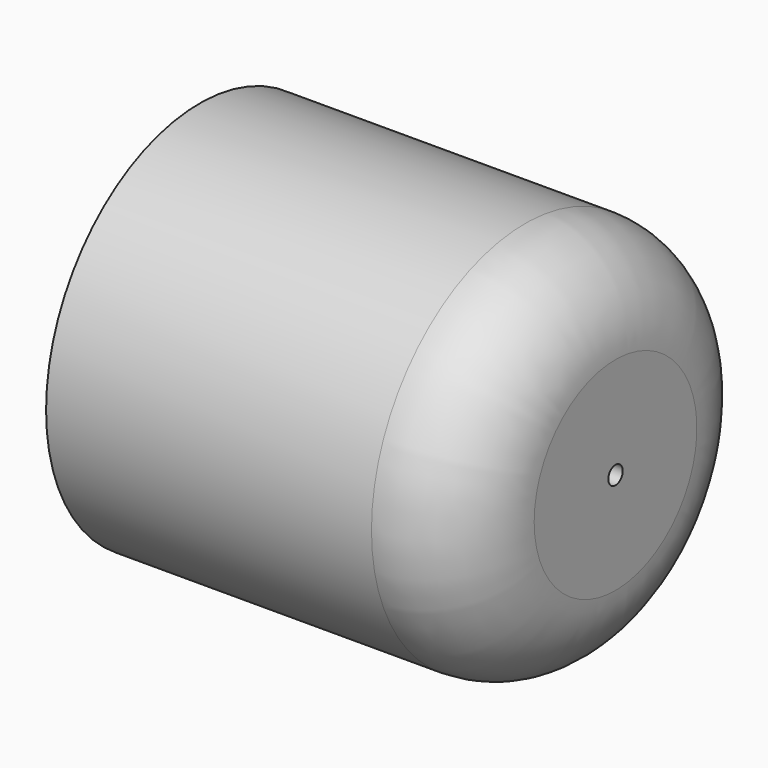
from build123d import *


with BuildPart() as f3:
    # F1 (on face) → F3 (revolve)
    with BuildSketch(Plane.XY):
        with BuildLine():
            Line((5, -2.75), (0, -2.75))
            Line((0, -2.75), (0, -4.25))
            Line((0, -4.25), (7.2, -4.25))
            ThreePointArc((7.2, -4.25), (8.614214, -3.664214), (9.2, -2.25))
            Line((9.2, -2.25), (9.2, -0.2))
            Line((9.2, -0.2), (8.2, -0.2))
            Line((8.2, -0.2), (8.2, -1.467218))
            ThreePointArc((8.2, -1.467218), (7.949678, -2.12902), (7.324035, -2.459496))
            Line((7.324035, -2.459496), (5, -2.75))
        make_face()
    revolve(axis=Axis((5.405035, 0, 0), (1, 0, 0)))


solid = f3.part
